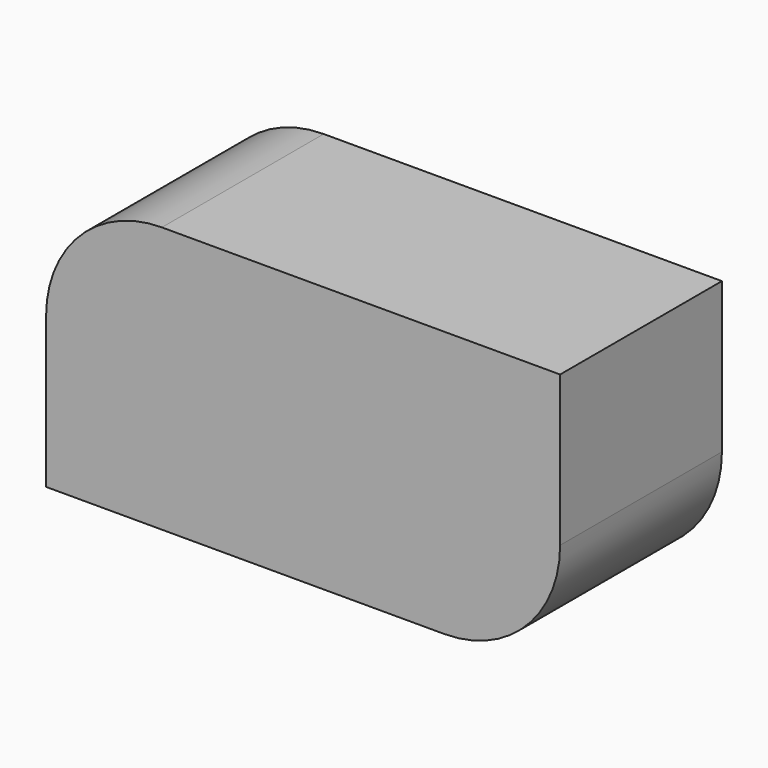
from build123d import *

# Parameters (mm, degrees)
F1_DEPTH = 33.274
F2_R     = 17.011463
F3_DEPTH = 19.812


with BuildPart() as f1:
    # F0 (on Front) → F1 (new body)
    with BuildSketch(Plane.XZ):
        with BuildLine():
            Line((-42.282864, 2.839683), (-42.282864, -21.889683))
            Line((-42.282864, -21.889683), (23.232864, -21.889683))
            ThreePointArc((23.232864, -21.889683), (36.703249, -16.310067), (42.282864, -2.839683))
            Line((42.282864, -2.839683), (42.282864, 21.889683))
            Line((42.282864, 21.889683), (-23.232864, 21.889683))
            ThreePointArc((-23.232864, 21.889683), (-36.703249, 16.310067), (-42.282864, 2.839683))
        make_face()
    extrude(amount=F1_DEPTH)

    # F2 (on face) → F3 (cut)
    with BuildSketch(Plane(origin=(0, 0, 0), x_dir=(-1, 0, 0), z_dir=(0, 1, 0))):
        Circle(F2_R)
    extrude(amount=-F3_DEPTH, mode=Mode.SUBTRACT)


solid = f1.part
